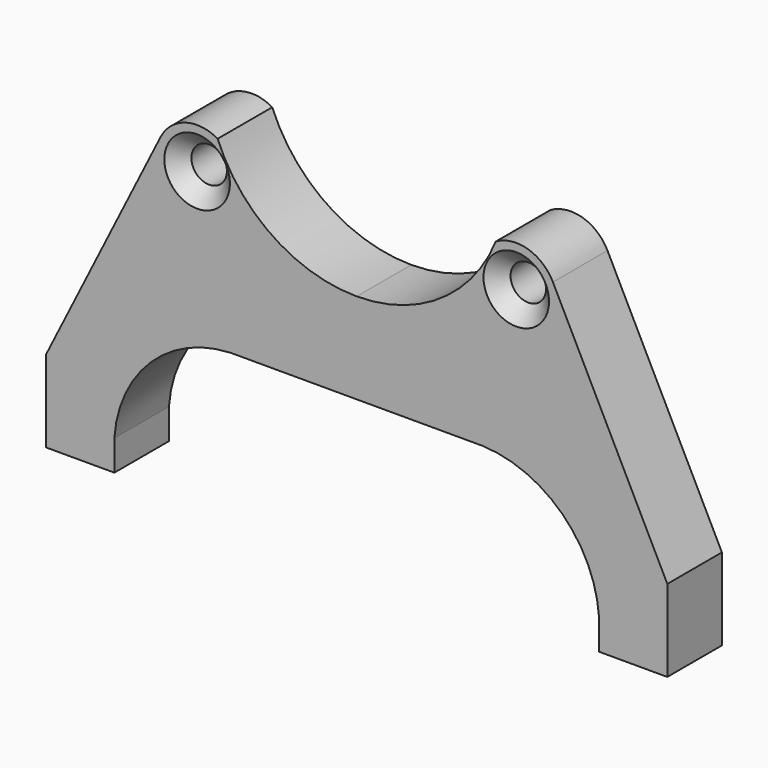
from build123d import *

# Parameters (mm, degrees)
F0_R           = 4.1275
F1_DEPTH       = 15.875
F3_D           = 8.255
F3_DEPTH       = 25.4
F3_CSINK_D     = 15.24
F3_CSINK_ANGLE = 90
F4_R           = 4.7625
F5_DEPTH       = 19.05


with BuildPart() as f1:
    # F0 (on Front) → F1 (new body)
    with BuildSketch(Plane.XZ):
        with BuildLine():
            ThreePointArc((0, -34.925), (-19.48747, -28.982653), (-32.343511, -13.177743))
            ThreePointArc((-32.343511, -13.177743), (-39.844625, -12.301191), (-45.625986, -17.160297))
            Line((-45.625986, -17.160297), (-72.23125, -70.2945))
            Line((-72.23125, -70.2945), (-72.23125, -89.3445))
            Line((-72.23125, -89.3445), (-56.35625, -89.3445))
            Line((-56.35625, -89.3445), (-56.35625, -86.1695))
            ThreePointArc((-56.35625, -86.1695), (-56.424398, -84.209267), (-56.35625, -82.249034))
            ThreePointArc((-56.35625, -82.249034), (-47.874791, -63.97181), (-29.36658, -56.007))
            ThreePointArc((-29.36658, -56.007), (-28.197928, -55.982797), (-27.029276, -56.007))
            Line((-27.029276, -56.007), (0, -56.007))
            Line((0, -56.007), (0, -34.925))
        make_face()
        with Locations((-37.109015, -21.4249)):
            Circle(F0_R, mode=Mode.SUBTRACT)
        with BuildLine():
            ThreePointArc((32.343511, -13.177743), (19.48747, -28.982653), (0, -34.925))
            Line((0, -34.925), (0, -56.007))
            Line((0, -56.007), (27.029276, -56.007))
            ThreePointArc((27.029276, -56.007), (28.197928, -55.982797), (29.36658, -56.007))
            ThreePointArc((29.36658, -56.007), (47.874791, -63.97181), (56.35625, -82.249034))
            ThreePointArc((56.35625, -82.249034), (56.424398, -84.209267), (56.35625, -86.1695))
            Line((56.35625, -86.1695), (56.35625, -89.3445))
            Line((56.35625, -89.3445), (72.23125, -89.3445))
            Line((72.23125, -89.3445), (72.23125, -70.2945))
            Line((72.23125, -70.2945), (45.625986, -17.160297))
            ThreePointArc((45.625986, -17.160297), (39.844625, -12.301191), (32.343511, -13.177743))
        make_face()
        with Locations((37.109015, -21.4249)):
            Circle(F0_R, mode=Mode.SUBTRACT)
        with BuildLine():
            Line((-29.36658, -56.007), (-27.029276, -56.007))
            ThreePointArc((-27.029276, -56.007), (-28.197928, -55.982797), (-29.36658, -56.007))
        make_face()
        with BuildLine():
            ThreePointArc((29.36658, -56.007), (28.197928, -55.982797), (27.029276, -56.007))
            Line((27.029276, -56.007), (29.36658, -56.007))
        make_face()
        with BuildLine():
            Line((-56.35625, -86.1695), (-56.35625, -82.249034))
            ThreePointArc((-56.35625, -82.249034), (-56.424398, -84.209267), (-56.35625, -86.1695))
        make_face()
        with BuildLine():
            ThreePointArc((56.35625, -86.1695), (56.424398, -84.209267), (56.35625, -82.249034))
            Line((56.35625, -82.249034), (56.35625, -86.1695))
        make_face()
    extrude(amount=F1_DEPTH)

    # F3
    with Locations(Plane.XZ.offset(15.875)):
        with Locations((-37.109015, -21.4249), (37.109015, -21.4249)):
            CounterSinkHole(F3_D / 2, F3_CSINK_D / 2, depth=F3_DEPTH, counter_sink_angle=F3_CSINK_ANGLE)

    # F4 (on face) → F5 (cut)
    with BuildSketch(Plane(origin=(0, 0, -89.3445), x_dir=(1, 0, 0), z_dir=(0, 0, -1))):
        with Locations((-64.5, 7.9375)):
            Circle(F4_R)
        with Locations((64.5, 7.9375)):
            Circle(F4_R)
    extrude(amount=-F5_DEPTH, mode=Mode.SUBTRACT)


solid = f1.part
